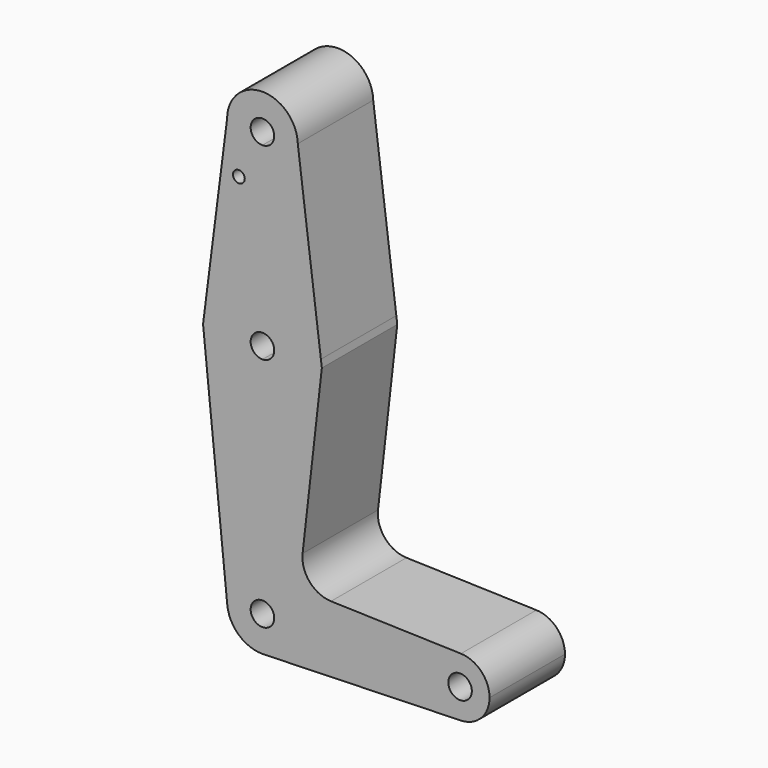
from build123d import *

# Parameters (mm, degrees)
F0_R     = 1.5875
F1_DEPTH = 25.4


with BuildPart() as f1:
    # F0 (on Front) → F1 (new body)
    with BuildSketch(Plane.XZ):
        with BuildLine():
            ThreePointArc((-9.5249597703, 50.8276834586), (-6.7449725701, 44.0746026118), (0, 41.275))
            ThreePointArc((0, 41.275), (6.7351920908, 44.0648079092), (9.525, 50.8))
            ThreePointArc((9.525, 50.8), (9.5239657399, 50.9403623342), (9.5208631843, 51.0806941863))
            ThreePointArc((9.5208631843, 51.0806941863), (-0.1265219451, 60.3241596583), (-9.5249597703, 50.8276834586))
        make_face()
        with BuildLine():
            ThreePointArc((3.175, 50.8), (2.2450640303, 48.5549359697), (0, 47.625))
            ThreePointArc((0, 47.625), (-2.2450640303, 53.0450640303), (3.175, 50.8))
        make_face(mode=Mode.SUBTRACT)
        with BuildLine():
            ThreePointArc((9.525, 50.8), (6.7351920908, 44.0648079092), (0, 41.275))
            Line((0, 41.275), (0, 15.875))
            ThreePointArc((0, 15.875), (10.4950642384, 11.9108879447), (15.7487287076, 1.9982915441))
            Line((15.7487287076, 1.9982915441), (9.5208631843, 51.0806941863))
            ThreePointArc((9.5208631843, 51.0806941863), (9.5239657399, 50.9403623342), (9.525, 50.8))
        make_face()
        with BuildLine():
            Line((0, 15.875), (0, 41.275))
            ThreePointArc((0, 41.275), (-6.7449725701, 44.0746026118), (-9.5249597703, 50.8276834586))
            Line((-9.5249597703, 50.8276834586), (-15.7475981623, 2.007181387))
            ThreePointArc((-15.7475981623, 2.007181387), (-10.4917019707, 11.9138497036), (0, 15.875))
        make_face()
        with Locations((-6.3500003889, 38.1127)):
            Circle(F0_R, mode=Mode.SUBTRACT)
        with BuildLine():
            ThreePointArc((15.7487287076, 1.9982915441), (10.4950642384, 11.9108879447), (0, 15.875))
            Line((0, 15.875), (0, 3.175))
            ThreePointArc((0, 3.175), (2.2450640303, 2.2450640303), (3.175, 0))
            ThreePointArc((3.175, 0), (2.2450640303, -2.2450640303), (0, -3.175))
            Line((0, -3.175), (0, -15.875))
            ThreePointArc((0, -15.875), (11.2253201513, -11.2253201513), (15.875, 0))
            ThreePointArc((15.875, 0), (15.8434007276, 1.0011385437), (15.7487287076, 1.9982915441))
        make_face()
        with BuildLine():
            Line((0, 3.175), (0, 15.875))
            ThreePointArc((0, 15.875), (-10.4917019707, 11.9138497036), (-15.7475981623, 2.007181387))
            ThreePointArc((-15.7475981623, 2.007181387), (-11.9138497036, -10.4917019707), (0, -15.875))
            Line((0, -15.875), (0, -3.175))
            ThreePointArc((0, -3.175), (-3.175, 0), (0, 3.175))
        make_face()
        with BuildLine():
            ThreePointArc((0, -15.875), (-11.9138497036, -10.4917019707), (-15.7475981623, 2.007181387))
            Line((-15.7475981623, 2.007181387), (-16.0034325644, 0))
            Line((-16.0034325644, 0), (-9.4765438502, -64.4595528417))
            ThreePointArc((-9.4765438502, -64.4595528417), (-7.0663061715, -57.1130647341), (0, -53.975))
            Line((0, -53.975), (0, -15.875))
        make_face()
        with BuildLine():
            Line((16.0022837567, 0), (15.7487287076, 1.9982915441))
            ThreePointArc((15.7487287076, 1.9982915441), (15.8434007276, 1.0011385437), (15.875, 0))
            ThreePointArc((15.875, 0), (11.2253201513, -11.2253201513), (0, -15.875))
            Line((0, -15.875), (0, -53.975))
            ThreePointArc((0, -53.975), (6.7351920908, -56.7648079092), (9.525, -63.5))
            Line((9.525, -63.5), (45.3039722444, -63.5))
            ThreePointArc((45.3039722444, -63.5), (47.7128962539, -57.8044970576), (53.4775165007, -55.5660105017))
            Line((53.4775165007, -55.5660105017), (18.4779350113, -54.5247373584))
            ThreePointArc((18.4779350113, -54.5247373584), (12.7059594339, -51.7842843081), (10.8149253237, -45.6810249347))
            Line((10.8149253237, -45.6810249347), (16.0022837567, 0))
        make_face()
        with BuildLine():
            ThreePointArc((9.525, -63.5), (6.7351920908, -56.7648079092), (0, -53.975))
            Line((0, -53.975), (0, -60.325))
            ThreePointArc((0, -60.325), (2.2450640303, -61.2549359697), (3.175, -63.5))
            Line((3.175, -63.5), (8.7914722444, -63.5))
            Line((8.7914722444, -63.5), (9.525, -63.5))
        make_face()
        with BuildLine():
            Line((0, -60.325), (0, -53.975))
            ThreePointArc((0, -53.975), (-7.0663061715, -57.1130647341), (-9.4765438502, -64.4595528417))
            ThreePointArc((-9.4765438502, -64.4595528417), (-6.3869352659, -70.5663061715), (0, -73.025))
            Line((0, -73.025), (0.5662556676, -73.008153318))
            ThreePointArc((0.5662556676, -73.008153318), (6.9325035245, -70.0319231382), (9.525, -63.5))
            Line((9.525, -63.5), (8.7914722444, -63.5))
            Line((8.7914722444, -63.5), (3.175, -63.5))
            ThreePointArc((3.175, -63.5), (-2.2450640303, -65.7450640303), (0, -60.325))
        make_face()
        with BuildLine():
            Line((45.3039722444, -63.5), (9.525, -63.5))
            ThreePointArc((9.525, -63.5), (6.9325035245, -70.0319231382), (0.5662556676, -73.008153318))
            Line((0.5662556676, -73.008153318), (53.4775165007, -71.4339894983))
            ThreePointArc((53.4775165007, -71.4339894983), (47.7128962539, -69.1955029424), (45.3039722444, -63.5))
        make_face()
        with BuildLine():
            ThreePointArc((61.1789722444, -63.5), (58.9369751868, -57.9714240095), (53.4775165007, -55.5660105017))
            ThreePointArc((53.4775165007, -55.5660105017), (47.7128962539, -57.8044970576), (45.3039722444, -63.5))
            ThreePointArc((45.3039722444, -63.5), (47.7128962539, -69.1955029424), (53.4775165007, -71.4339894983))
            ThreePointArc((53.4775165007, -71.4339894983), (58.9369751868, -69.0285759905), (61.1789722444, -63.5))
        make_face()
        with BuildLine():
            ThreePointArc((56.4164722444, -63.5), (53.2414722444, -66.675), (50.0664722444, -63.5))
            ThreePointArc((50.0664722444, -63.5), (53.2414722444, -60.325), (56.4164722444, -63.5))
        make_face(mode=Mode.SUBTRACT)
    extrude(amount=F1_DEPTH)


solid = f1.part
